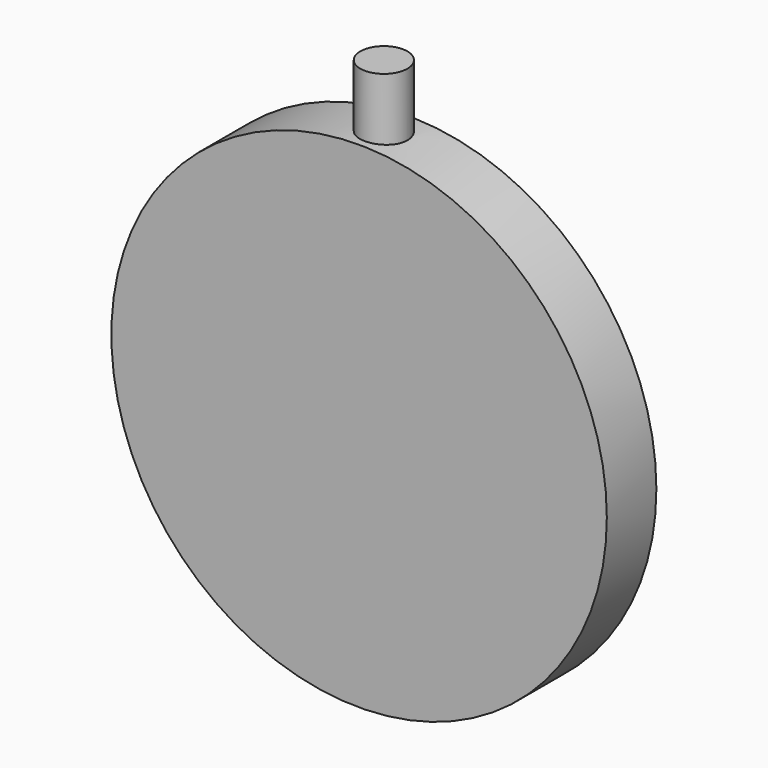
from build123d import *

# Parameters (mm, degrees)
F0_R      = 100
F1_DEPTH  = 12.5
F1_FACE_R = 100
F2_DEPTH  = 12.5
F3_R      = 9.5
F4_DEPTH  = 125


with BuildPart() as f1:
    # F0 (on Front) → F1 (new body)
    with BuildSketch(Plane.XZ):
        Circle(F0_R)
    extrude(amount=F1_DEPTH)

    # F1_face (on face) → F2 (join)
    with BuildSketch(Plane(origin=(0, 0, 0), x_dir=(1, 0, 0), z_dir=(0, 1, 0))):
        Circle(F1_FACE_R)
    extrude(amount=F2_DEPTH)

    # F3 (on Top) → F4 (join)
    with BuildSketch(Plane.XY):
        Circle(F3_R)
    extrude(amount=F4_DEPTH)


solid = f1.part
